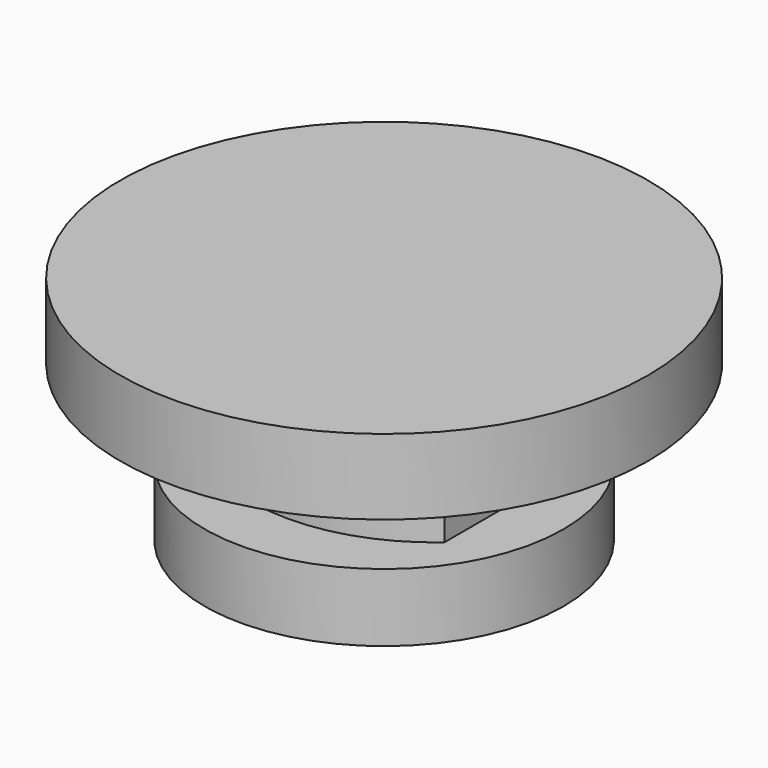
from build123d import *

# Parameters (mm, degrees)
F0_W     = 3.9
F0_H     = 5.8
F0_W_2   = 1.9
F0_H_2   = 2
F2_R     = 4.166667
F3_DEPTH = 6


with BuildPart() as f1:
    # F0 (on Front) → F1 (revolve)
    with BuildSketch(Plane.XZ):
        Polygon((17.5, 17.3), (0, 17.3), (0, 12.3), (4.1, 12.3), (8, 12.3), (17.5, 12.3), align=None)
        with Locations((6.05, 9.4)):
            Rectangle(F0_W, F0_H)
        Polygon((8, 6.5), (4.1, 6.5), (4.1, 2), (6, 2), (11.9, 2), (11.9, 6.5), align=None)
        with Locations((5.05, 1)):
            Rectangle(F0_W_2, F0_H_2)
    revolve(axis=Axis((0, 0, 14.8), (0, 0, -1)))

    # F2 (on face) → F3 (join)
    with BuildSketch(Plane(origin=(0, 0, 12.3), x_dir=(1, 0, 0), z_dir=(0, 0, -1))):
        with BuildLine():
            ThreePointArc((-8, -5), (0, -8), (8, -5))
            Line((8, -5), (8, 5))
            ThreePointArc((8, 5), (0, 8), (-8, 5))
            Line((-8, 5), (-8, -5))
        make_face()
        Circle(F2_R, mode=Mode.SUBTRACT)
    extrude(amount=F3_DEPTH)


solid = f1.part
